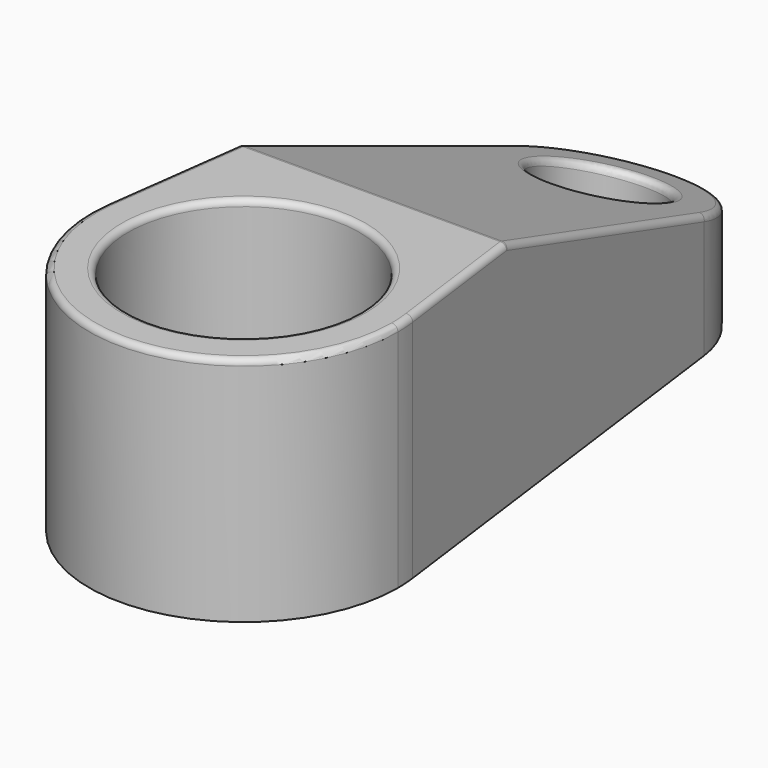
from build123d import *

# Parameters (mm, degrees)
F0_R     = 4.7625
F0_R_2   = 9.525
F1_DEPTH = 19.05
F3_DEPTH = 12.7
F4_R     = 0.508


with BuildPart() as f1:
    # F0 (on Top) → F1 (new body)
    with BuildSketch(Plane.XY):
        with BuildLine():
            ThreePointArc((-12.5915025207, -22.3018423613), (0, -11.2583641004), (12.5915025207, -22.3018423613))
            Line((12.5915025207, -22.3018423613), (7.8696890754, 13.5894619866))
            ThreePointArc((7.8696890754, 13.5894619866), (7.9205291265, 13.0729081107), (7.9375, 12.5541358996))
            ThreePointArc((7.9375, 12.5541358996), (-0.518772211, 4.6336067732), (-7.8696890754, 13.5894619866))
            Line((-7.8696890754, 13.5894619866), (-12.5915025207, -22.3018423613))
        make_face()
        with BuildLine():
            ThreePointArc((7.9375, 12.5541358996), (7.9205291265, 13.0729081107), (7.8696890754, 13.5894619866))
            ThreePointArc((7.8696890754, 13.5894619866), (0, 20.4916358996), (-7.8696890754, 13.5894619866))
            ThreePointArc((-7.8696890754, 13.5894619866), (-0.518772211, 4.6336067732), (7.9375, 12.5541358996))
        make_face()
        with Locations((0, 12.5541358996)):
            Circle(F0_R, mode=Mode.SUBTRACT)
        with BuildLine():
            ThreePointArc((-12.5915025207, -22.3018423613), (-0.8300355377, -36.6312107027), (12.7, -23.9583641004))
            ThreePointArc((12.7, -23.9583641004), (12.6728466023, -23.1283285627), (12.5915025207, -22.3018423613))
            ThreePointArc((12.5915025207, -22.3018423613), (0, -11.2583641004), (-12.5915025207, -22.3018423613))
        make_face()
        with Locations((0, -23.9583641004)):
            Circle(F0_R_2, mode=Mode.SUBTRACT)
    extrude(amount=F1_DEPTH)

    # F2 (on Right) → F3 (cut, symmetric)
    with BuildSketch(Plane.YZ):
        Polygon((27.539246283, 19.6871260232), (-12.4499707691, 19.6871260232), (27.539246283, 5.1322413246), align=None)
    extrude(amount=F3_DEPTH, both=True, mode=Mode.SUBTRACT)

    # F4
    f4_edges = [f1.edges().sort_by_distance(p)[0] for p in [
        (0, -10.699481, 19.05),
        (0, -36.658364, 19.05),
        (9.4674, 1.44499, 14.629774),
        (-9.525, -23.958364, 19.05),
        (-4.7625, 12.554128, 10.586378),
    ]]
    fillet(f4_edges, radius=F4_R)


solid = f1.part
